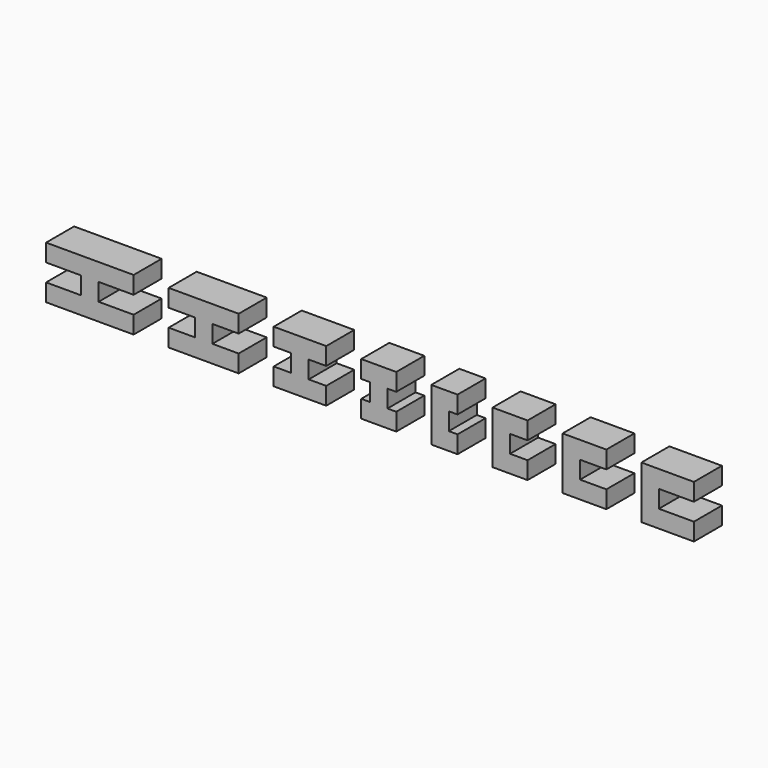
from build123d import *

# Parameters (mm, degrees)
F1_DEPTH = 10
F3_DEPTH = 10


with BuildPart() as f1:
    # F0 (on Front) → F1 (new body)
    with BuildSketch(Plane.XZ):
        Polygon((12.5, 15), (5, 15), (5, 0), (12.5, 0), (12.5, 5), (10, 5), (10, 10), (12.5, 10), align=None)
        Polygon((32.5, 15), (22.5, 15), (22.5, 0), (32.5, 0), (32.5, 5), (27.5, 5), (27.5, 10), (32.5, 10), align=None)
        Polygon((55, 15), (42.5, 15), (42.5, 0), (55, 0), (55, 5), (47.5, 5), (47.5, 10), (55, 10), align=None)
        Polygon((80, 15), (65, 15), (65, 0), (80, 0), (80, 5), (70, 5), (70, 10), (80, 10), align=None)
    extrude(amount=F1_DEPTH)


with BuildPart() as f3:
    # F2 (on Front) → F3 (new body)
    with BuildSketch(Plane.XZ):
        Polygon((-105, 0), (-80, 0), (-80, 5), (-90, 5), (-90, 10), (-80, 10), (-80, 15), (-105, 15), (-105, 10), (-95, 10), (-95, 5), (-105, 5), align=None)
        Polygon((-70, 0), (-50, 0), (-50, 5), (-57.5, 5), (-57.5, 10), (-50, 10), (-50, 15), (-70, 15), (-70, 10), (-62.5, 10), (-62.5, 5), (-70, 5), align=None)
        Polygon((-40, 0), (-25, 0), (-25, 5), (-30, 5), (-30, 10), (-25, 10), (-25, 15), (-40, 15), (-40, 10), (-35, 10), (-35, 5), (-40, 5), align=None)
        Polygon((-15, 0), (-5, 0), (-5, 5), (-7.5, 5), (-7.5, 10), (-5, 10), (-5, 15), (-15, 15), (-15, 10), (-12.5, 10), (-12.5, 5), (-15, 5), align=None)
    extrude(amount=F3_DEPTH)


solid = Compound([f1.part, f3.part])
